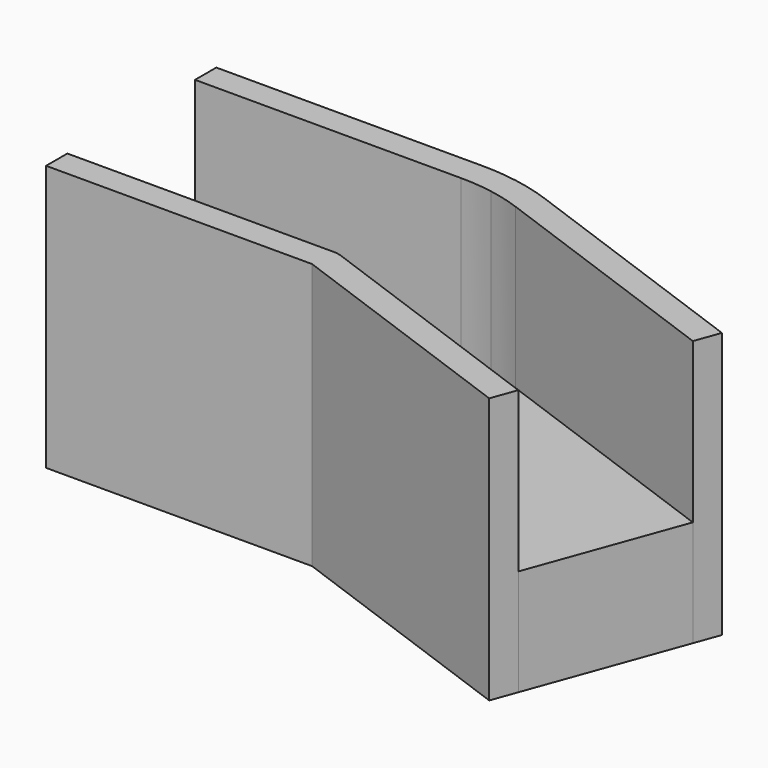
from build123d import *

# Parameters (mm, degrees)
F0_W     = 50
F0_H     = 29.9999964237
F0_H_2   = 5.0000035763
F0_H_3   = 5
F1_DEPTH = 20
F2_DEPTH = 50


with BuildPart() as f1:
    # F0 (on Top) → F1 (new body)
    with BuildSketch(Plane.XY):
        with Locations((-25, 19.9999982119)):
            Rectangle(F0_W, F0_H)
        with Locations((-25, 37.4999982119)):
            Rectangle(F0_W, F0_H_2)
        with Locations((-25, 2.5)):
            Rectangle(F0_W, F0_H_3)
        with BuildLine():
            Line((0, 34.9999964237), (0, 5))
            ThreePointArc((0, 5), (0.4357787137, 4.9809734905), (0.8682408883, 4.9240387651))
            Line((0.8682408883, 4.9240387651), (6.0776855973, 34.4682678335))
            ThreePointArc((6.0776855973, 34.4682678335), (3.0504506845, 34.8668108705), (0, 34.9999964237))
        make_face()
        with BuildLine():
            Line((6.0776855973, 34.4682678335), (0.8682408883, 4.9240387651))
            ThreePointArc((0.8682408883, 4.9240387651), (1.2940952255, 4.8296291314), (1.7101007166, 4.6984631039))
            Line((1.7101007166, 4.6984631039), (11.9707037932, 32.8892383669))
            ThreePointArc((11.9707037932, 32.8892383669), (9.058665653, 33.8074004657), (6.0776855973, 34.4682678335))
        make_face()
        with BuildLine():
            Line((6.9459271067, 39.3923101205), (6.0776855973, 34.4682678335))
            ThreePointArc((6.0776855973, 34.4682678335), (9.058665653, 33.8074004657), (11.9707037932, 32.8892383669))
            Line((11.9707037932, 32.8892383669), (13.680805733, 37.5877048314))
            ThreePointArc((13.680805733, 37.5877048314), (10.3527618041, 38.6370330516), (6.9459271067, 39.3923101205))
        make_face()
        with BuildLine():
            Line((0, 40), (0, 34.9999964237))
            ThreePointArc((0, 34.9999964237), (3.0504506845, 34.8668108705), (6.0776855973, 34.4682678335))
            Line((6.0776855973, 34.4682678335), (6.9459271067, 39.3923101205))
            ThreePointArc((6.9459271067, 39.3923101205), (3.4862297099, 39.8477879237), (0, 40))
        make_face()
        with BuildLine():
            Line((0, 5), (0, 0))
            Line((0, 0), (0.8682408883, 4.9240387651))
            ThreePointArc((0.8682408883, 4.9240387651), (0.4357787137, 4.9809734905), (0, 5))
        make_face()
        with BuildLine():
            Line((0.8682408883, 4.9240387651), (0, 0))
            Line((0, 0), (1.7101007166, 4.6984631039))
            ThreePointArc((1.7101007166, 4.6984631039), (1.2940952255, 4.8296291314), (0.8682408883, 4.9240387651))
        make_face()
        Polygon((1.7101007166, 4.6984631039), (0, 0), (46.9846310393, -17.1010071663), (48.6947317559, -12.4025440624), align=None)
        Polygon((11.9707037932, 32.8892383669), (1.7101007166, 4.6984631039), (48.6947317559, -12.4025440624), (58.9553348325, 15.7882312006), align=None)
        Polygon((13.680805733, 37.5877048314), (11.9707037932, 32.8892383669), (58.9553348325, 15.7882312006), (60.6654367723, 20.4866976652), align=None)
    extrude(amount=F1_DEPTH)

    # F0 (on Top) → F2 (join)
    with BuildSketch(Plane.XY):
        with BuildLine():
            Line((6.9459271067, 39.3923101205), (6.0776855973, 34.4682678335))
            ThreePointArc((6.0776855973, 34.4682678335), (9.058665653, 33.8074004657), (11.9707037932, 32.8892383669))
            Line((11.9707037932, 32.8892383669), (13.680805733, 37.5877048314))
            ThreePointArc((13.680805733, 37.5877048314), (10.3527618041, 38.6370330516), (6.9459271067, 39.3923101205))
        make_face()
        Polygon((13.680805733, 37.5877048314), (11.9707037932, 32.8892383669), (58.9553348325, 15.7882312006), (60.6654367723, 20.4866976652), align=None)
        with BuildLine():
            Line((0, 40), (0, 34.9999964237))
            ThreePointArc((0, 34.9999964237), (3.0504506845, 34.8668108705), (6.0776855973, 34.4682678335))
            Line((6.0776855973, 34.4682678335), (6.9459271067, 39.3923101205))
            ThreePointArc((6.9459271067, 39.3923101205), (3.4862297099, 39.8477879237), (0, 40))
        make_face()
        with Locations((-25, 37.4999982119)):
            Rectangle(F0_W, F0_H_2)
        Polygon((1.7101007166, 4.6984631039), (0, 0), (46.9846310393, -17.1010071663), (48.6947317559, -12.4025440624), align=None)
        with Locations((-25, 2.5)):
            Rectangle(F0_W, F0_H_3)
        with BuildLine():
            Line((0, 5), (0, 0))
            Line((0, 0), (0.8682408883, 4.9240387651))
            ThreePointArc((0.8682408883, 4.9240387651), (0.4357787137, 4.9809734905), (0, 5))
        make_face()
        with BuildLine():
            Line((0.8682408883, 4.9240387651), (0, 0))
            Line((0, 0), (1.7101007166, 4.6984631039))
            ThreePointArc((1.7101007166, 4.6984631039), (1.2940952255, 4.8296291314), (0.8682408883, 4.9240387651))
        make_face()
    extrude(amount=F2_DEPTH)


solid = f1.part
